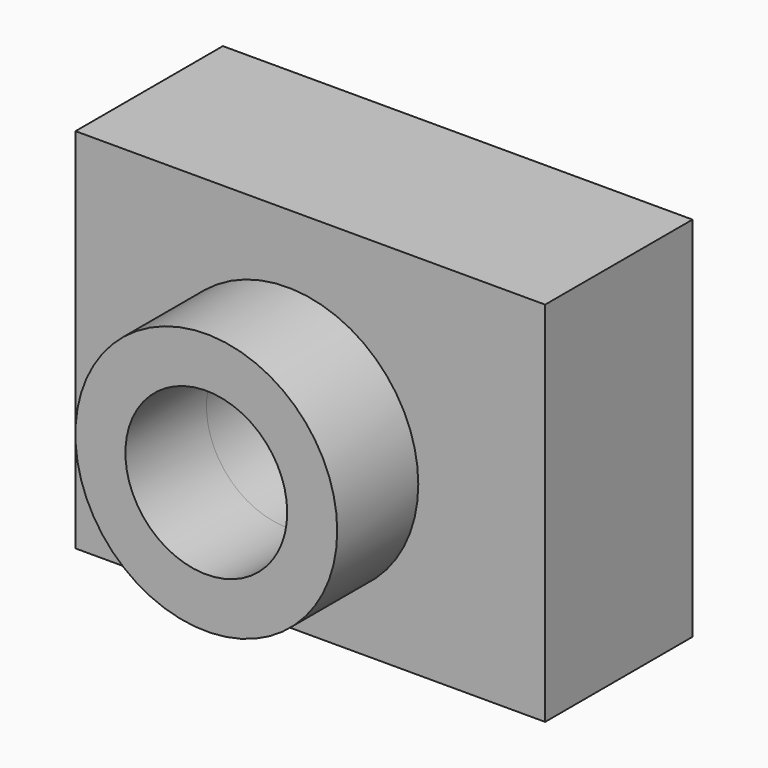
from build123d import *

# Parameters (mm, degrees)
F0_W     = 64.7562947124
F0_H     = 50.6538115442
F1_DEPTH = 25.4
F2_R     = 11.1559539437
F3_DEPTH = 50.292
F4_R     = 18.0527377002
F4_R_2   = 11.1559539437
F5_DEPTH = 13.97


with BuildPart() as f1:
    # F0 (on Front) → F1 (new body)
    with BuildSketch(Plane.XZ):
        with Locations((3.1658643857, 2.158543095)):
            Rectangle(F0_W, F0_H)
    extrude(amount=F1_DEPTH)

    # F2 (on face) → F3 (cut)
    with BuildSketch(Plane.XZ.offset(25.4)):
        Circle(F2_R)
    extrude(amount=-F3_DEPTH, mode=Mode.SUBTRACT)

    # F4 (on face) → F5 (join)
    with BuildSketch(Plane.XZ.offset(25.4)):
        Circle(F4_R)
        Circle(F4_R_2, mode=Mode.SUBTRACT)
    extrude(amount=F5_DEPTH)


solid = f1.part
